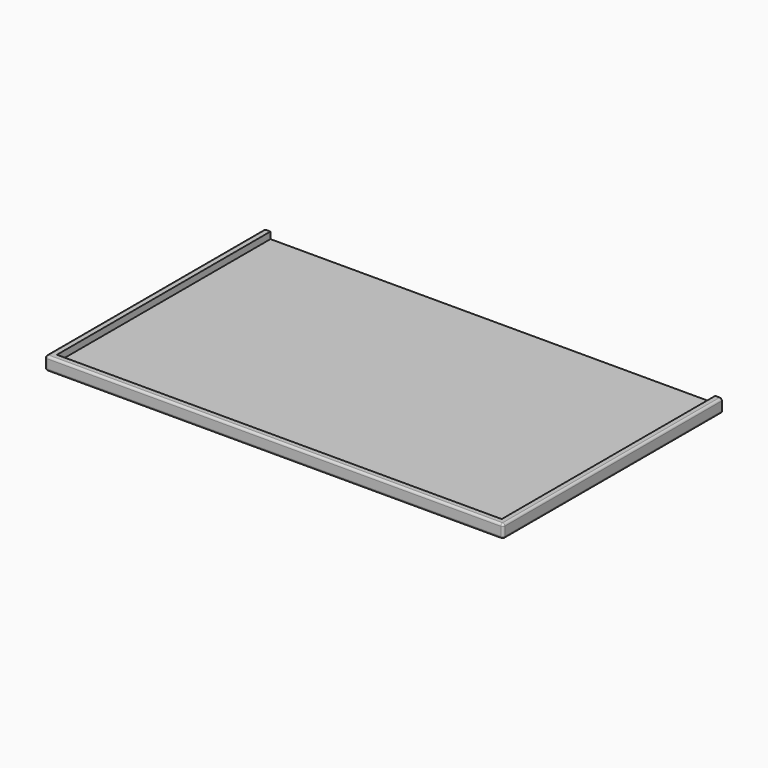
from build123d import *

# Parameters (mm, degrees)
F0_W     = 1270
F0_H     = 762
F1_DEPTH = 19.05
F0_H_2   = 19.05
F2_DEPTH = 38.1
F3_R     = 6.35


with BuildPart() as f1:
    # F0 (on Top) → F1 (new body)
    with BuildSketch(Plane.XY):
        with Locations((-54.064326, 84.644601)):
            Rectangle(F0_W, F0_H)
    extrude(amount=F1_DEPTH)

    # F0 (on Top) → F2 (join)
    with BuildSketch(Plane.XY):
        Polygon((-689.064326, -296.355399), (-689.064326, 465.644601), (-708.114326, 465.644601), (-708.114326, -315.405399), (-689.064326, -315.405399), align=None)
        with Locations((-54.064326, -305.880399)):
            Rectangle(F0_W, F0_H_2)
        Polygon((599.985674, 465.644601), (580.935674, 465.644601), (580.935674, -296.355399), (580.935674, -315.405399), (599.985674, -315.405399), align=None)
    extrude(amount=F2_DEPTH)

    # F3
    f3_edges = [f1.edges().sort_by_distance(p)[0] for p in [
        (599.985674, 75.119601, 0),
        (-54.064326, -315.405399, 0),
        (-708.114326, 75.119601, 0),
        (-708.114326, 75.119601, 38.1),
        (-708.114326, -315.405399, 19.05),
        (-54.064326, -315.405399, 38.1),
        (599.985674, 75.119601, 38.1),
        (599.985674, -315.405399, 19.05),
    ]]
    fillet(f3_edges, radius=F3_R)


solid = f1.part
